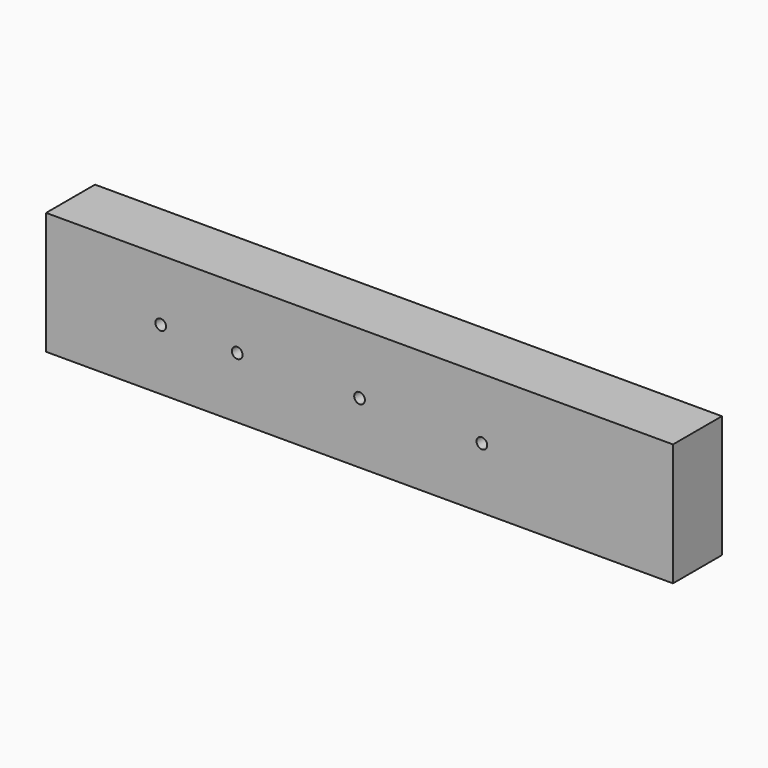
from build123d import *

# Parameters (mm, degrees)
F0_W     = 820
F0_H     = 160
F0_R     = 7
F1_DEPTH = 80


with BuildPart() as f1:
    # F0 (on Front) → F1 (new body)
    with BuildSketch(Plane.XZ):
        Rectangle(F0_W, F0_H)
        with Locations((-260, 0)):
            Circle(F0_R, mode=Mode.SUBTRACT)
        with Locations((-160, 0)):
            Circle(F0_R, mode=Mode.SUBTRACT)
        Circle(F0_R, mode=Mode.SUBTRACT)
        with Locations((160, 0)):
            Circle(F0_R, mode=Mode.SUBTRACT)
    extrude(amount=F1_DEPTH)


solid = f1.part
